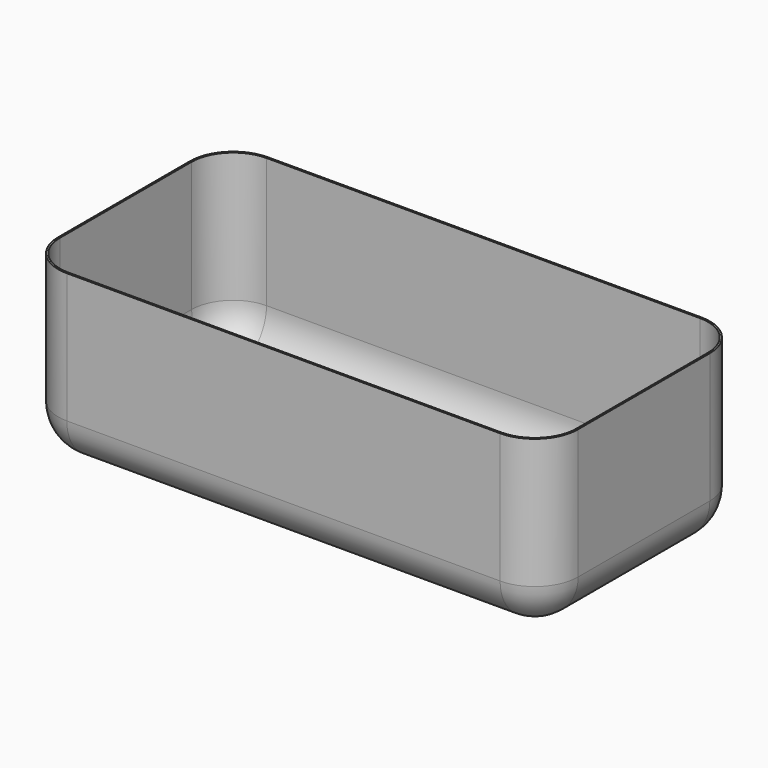
from build123d import *

# Parameters (mm, degrees)
F0_W     = 600
F0_H     = 200
F1_DEPTH = 290
F2_R     = 50
F3_T     = -2


with BuildPart() as f1:
    # F0 (on Front) → F1 (new body)
    with BuildSketch(Plane.XZ):
        with Locations((300, 100)):
            Rectangle(F0_W, F0_H)
    extrude(amount=F1_DEPTH)

    # F2
    f2_edges = [f1.edges().sort_by_distance(p)[0] for p in [
        (600, -290, 100),
        (0, -290, 100),
        (600, 0, 100),
        (600, -145, 0),
        (300, -290, 0),
        (0, -145, 0),
        (0, 0, 100),
        (300, 0, 0),
    ]]
    fillet(f2_edges, radius=F2_R)

    # F3
    f3_openings = [f1.faces().sort_by_distance(p)[0] for p in [
        (300, -145, 200),
    ]]
    offset(amount=F3_T, openings=f3_openings)


solid = f1.part
